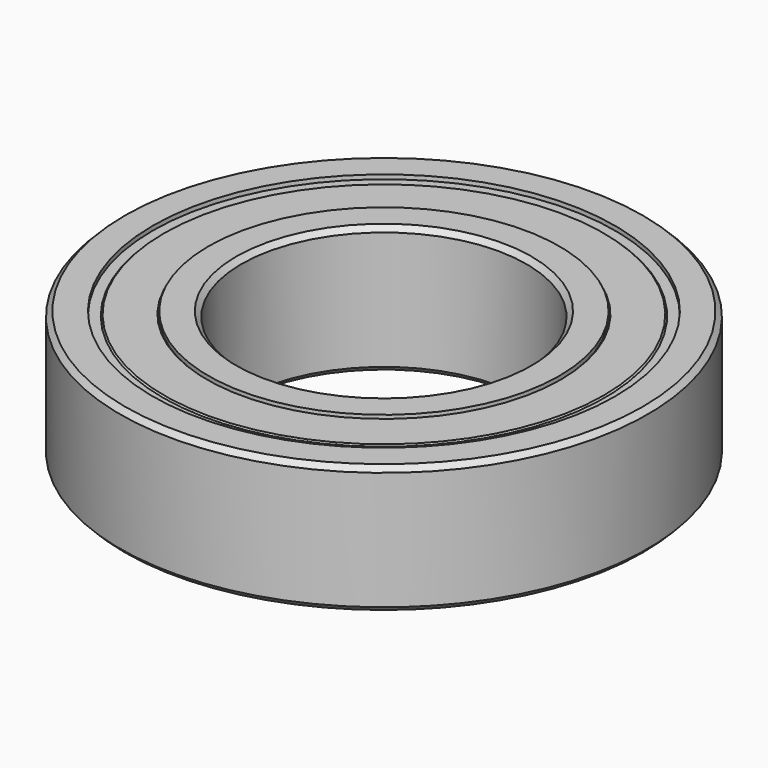
from build123d import *


with BuildPart() as part:
    # Sketch → Revolution (revolve)
    with BuildSketch(Plane.XZ):
        Polygon((-18.5, 4.146447), (-18.5, -4.146447), (-18.146447, -4.5), (-16.2, -4.5), (-16.2, -4.2), (-15.5, -4.2), (-15.4, -4.3), (-12.4, -4.3), (-12.3, -4.2), (-12.3, -4.5), (-10.353553, -4.5), (-10, -4.146447), (-10, 4.146447), (-10.353553, 4.5), (-12.3, 4.5), (-12.3, 4.2), (-12.4, 4.3), (-15.4, 4.3), (-15.5, 4.2), (-16.2, 4.2), (-16.2, 4.5), (-18.146447, 4.5), align=None)
    revolve(axis=Axis((0, 0, 0), (0, 0, 1)))


solid = part.part
